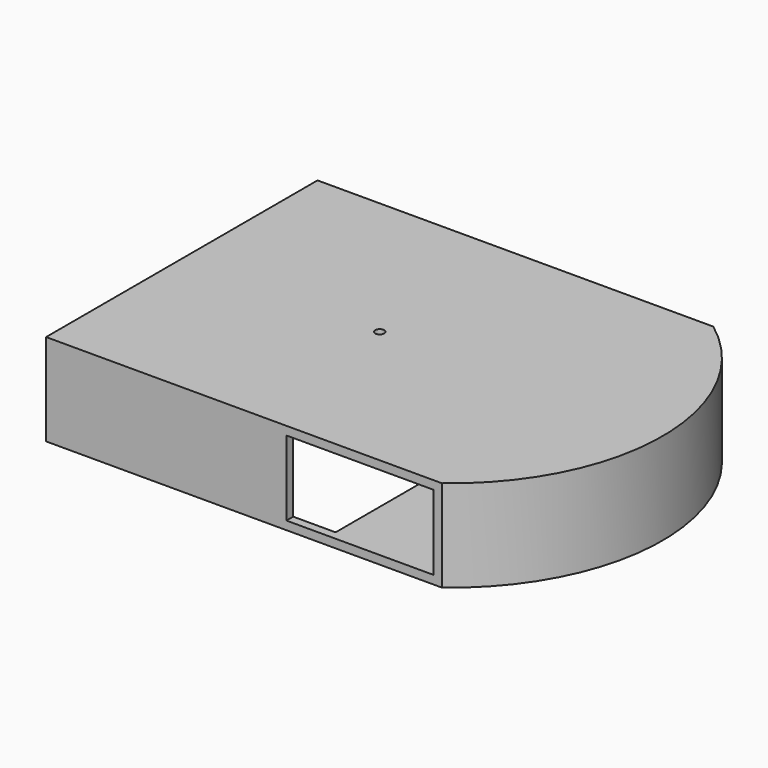
from build123d import *

# Parameters (mm, degrees)
F0_W     = 140
F0_H     = 120
F0_R     = 1.6002
F1_DEPTH = 32.5
F2_W     = 52
F2_H     = 26.5
F3_DEPTH = 120
F4_W     = 114
F4_H     = 29.5
F5_DEPTH = 100


with BuildPart() as f1:
    # F0 (on Top) → F1 (new body)
    with BuildSketch(Plane.XY):
        Rectangle(F0_W, F0_H)
        Circle(F0_R, mode=Mode.SUBTRACT)
        with BuildLine():
            Line((70, 60), (70, -60))
            ThreePointArc((70, -60), (100, 0), (70, 60))
        make_face()
    extrude(amount=F1_DEPTH)

    # F2 (on face) → F3 (cut)
    with BuildSketch(Plane(origin=(0, 60, 0), x_dir=(-1, 0, 0), z_dir=(0, 1, 0))):
        with Locations((-41, 16.25)):
            Rectangle(F2_W, F2_H)
    extrude(amount=-F3_DEPTH, mode=Mode.SUBTRACT)

    # F4 (on face) → F5 (cut)
    with BuildSketch(Plane(origin=(-70, 0, 0), x_dir=(0, -1, 0), z_dir=(-1, 0, 0))):
        with Locations((0, 14.75)):
            Rectangle(F4_W, F4_H)
    extrude(amount=-F5_DEPTH, mode=Mode.SUBTRACT)


solid = f1.part
